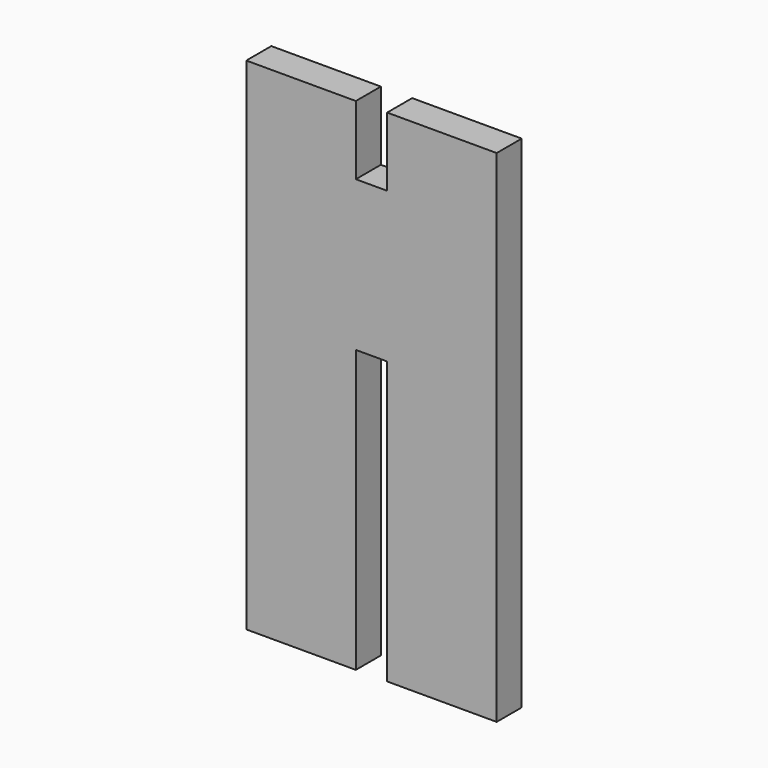
from build123d import *

# Parameters (mm, degrees)
F1_DEPTH = 3.175


with BuildPart() as f1:
    # F0 (on Front) → F1 (new body)
    with BuildSketch(Plane.XZ):
        Polygon((12.7, -25.4), (12.7, 25.4), (3.175, 25.4), (1.5875, 25.4), (1.5875, 18.415), (-1.5875, 18.415), (-1.5875, 25.4), (-3.175, 25.4), (-12.7, 25.4), (-12.7, -25.4), (-3.175, -25.4), (-1.5875, -25.4), (-1.5875, 3.175), (0, 3.175), (1.5875, 3.175), (1.5875, -25.4), (3.175, -25.4), align=None)
    extrude(amount=F1_DEPTH)


solid = f1.part
